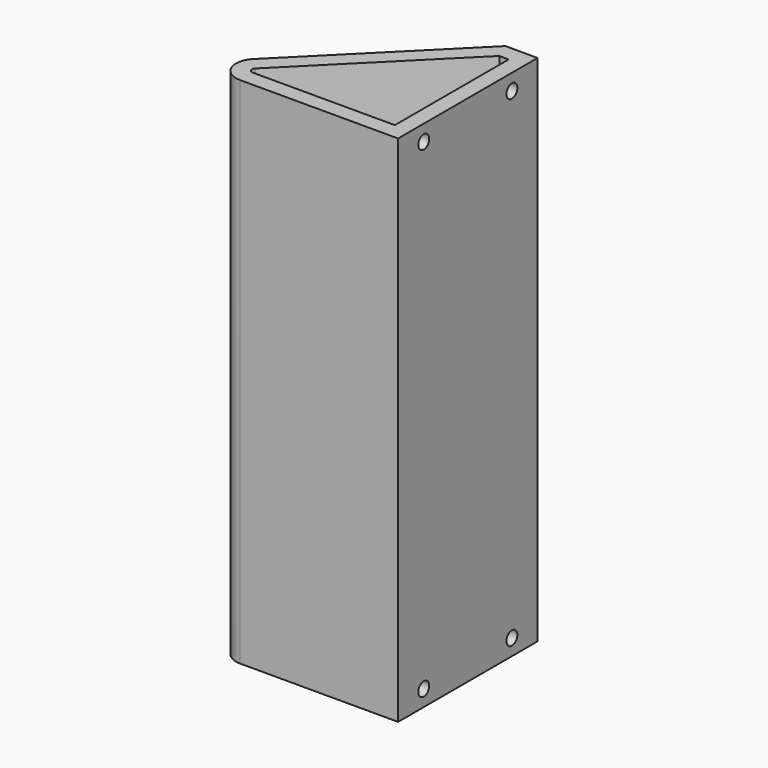
from build123d import *

# Parameters (mm, degrees)
F1_DEPTH = 101.6
F2_R     = 1.35255
F3_DEPTH = 3.175


with BuildPart() as f1:
    # F0 (on Top) → F1 (new body)
    with BuildSketch(Plane.XY):
        with BuildLine():
            Line((25.472929, 29.963057), (-2.245064, 2.245064))
            ThreePointArc((-2.245064, 2.245064), (-3.105381, -2.080041), (0.561266, -4.530016))
            Line((0.561266, -4.530016), (31.822929, -4.530016))
            Line((31.822929, -4.530016), (31.822929, 29.963057))
            Line((31.822929, 29.963057), (25.472929, 29.963057))
        make_face()
        with BuildLine():
            Line((28.647929, -1.355016), (0.561266, -1.355016))
            ThreePointArc((0.561266, -1.355016), (-0.172063, -0.865021), (0, 0))
            Line((0, 0), (26.788057, 26.788057))
            Line((26.788057, 26.788057), (28.647929, 26.788057))
            Line((28.647929, 26.788057), (28.647929, -1.355016))
        make_face(mode=Mode.SUBTRACT)
    extrude(amount=F1_DEPTH)

    # F2 (on face) → F3 (cut, through all)
    with BuildSketch(Plane.YZ.offset(31.822929)):
        with Locations((23.613057, 98.425)):
            Circle(F2_R)
        with Locations((1.819984, 98.425)):
            Circle(F2_R)
        with Locations((1.819984, 3.175)):
            Circle(F2_R)
        with Locations((23.613057, 3.175)):
            Circle(F2_R)
    extrude(amount=-F3_DEPTH, mode=Mode.SUBTRACT)


solid = f1.part
